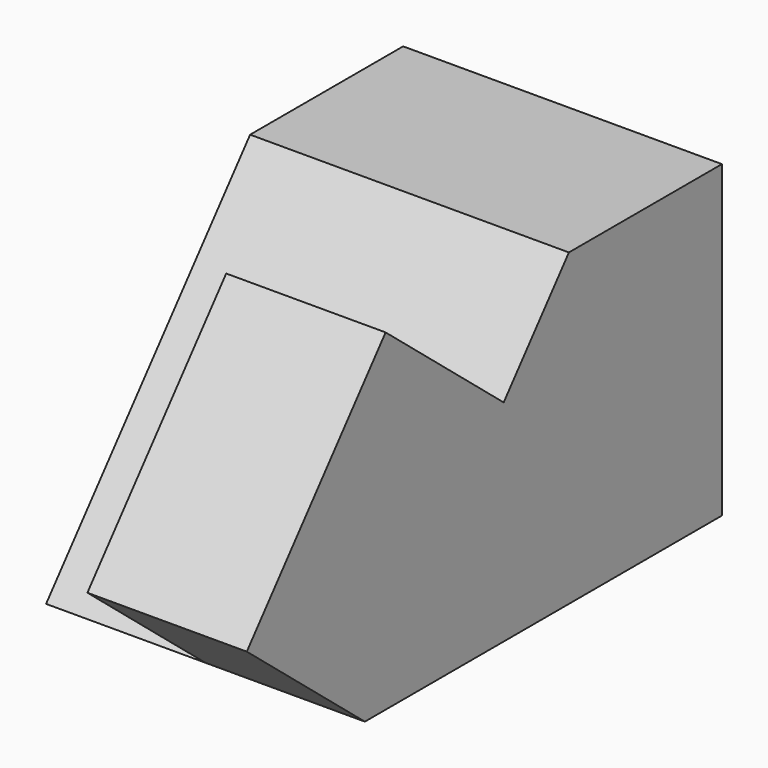
from build123d import *

# Parameters (mm, degrees)
F1_DEPTH = 31.75
F2_W     = 15.875
F2_H     = 27.1689399092
F3_DEPTH = 19.05


with BuildPart() as f1:
    # F0 (on Right) → F1 (new body)
    with BuildSketch(Plane.YZ):
        Polygon((-64.9941207626, 0), (-20.5441207626, 0), (-20.5441207626, 30.8161787048), (-39.5941207626, 30.8161787048), align=None)
    extrude(amount=F1_DEPTH)

    # F2 (on face) → F3 (join)
    with BuildSketch(Plane(origin=(0, -38.7013635213, 31.8993033776), x_dir=(1, 0, 0), z_dir=(0, -0.7716601919, 0.6360350212))):
        with Locations((23.8125, -27.7540670215)):
            Rectangle(F2_W, F2_H)
    extrude(amount=F3_DEPTH)


solid = f1.part
